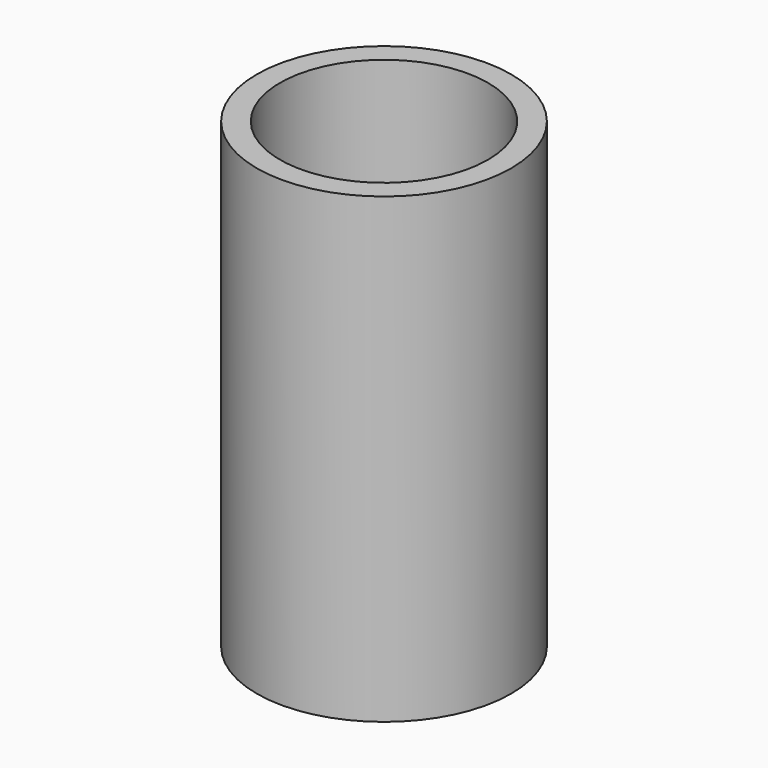
from build123d import *

# Parameters (mm, degrees)
F0_R     = 5.5
F1_DEPTH = 20
F2_R     = 4.5
F3_DEPTH = 19
F4_R     = 1.5
F5_DEPTH = 25


with BuildPart() as f1:
    # F0 (on Top) → F1 (new body)
    with BuildSketch(Plane.XY):
        Circle(F0_R)
    extrude(amount=F1_DEPTH)

    # F2 (on face) → F3 (cut)
    with BuildSketch(Plane.XY.offset(20)):
        Circle(F2_R)
    extrude(amount=-F3_DEPTH, mode=Mode.SUBTRACT)

    # F4 (on Right) → F5 (cut)
    with BuildSketch(Plane.YZ):
        with Locations((0, 4)):
            Circle(F4_R)
    extrude(amount=-F5_DEPTH, mode=Mode.SUBTRACT)


solid = f1.part
